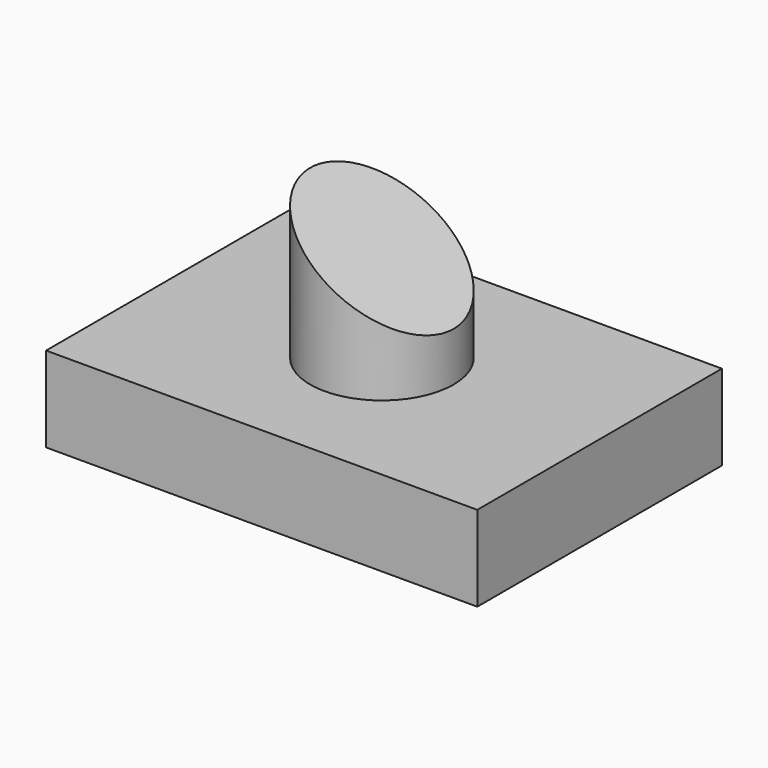
from build123d import *

# Parameters (mm, degrees)
F0_W     = 148.923736
F0_H     = 105.609175
F1_DEPTH = 29.464
F2_R     = 24.768688
F3_DEPTH = 51.308
F5_DEPTH = 1143


with BuildPart() as f1:
    # F0 (on Top) → F1 (new body)
    with BuildSketch(Plane.XY):
        with Locations((16.5732, 5.461818)):
            Rectangle(F0_W, F0_H)
    extrude(amount=F1_DEPTH)

    # F2 (on face) → F3 (join)
    with BuildSketch(Plane.XY.offset(29.464)):
        with Locations((15.579882, 5.789573)):
            Circle(F2_R)
    extrude(amount=F3_DEPTH)

    # F4 (on Front) → F5 (cut, symmetric)
    with BuildSketch(Plane.XZ):
        Polygon((40.655378, 84.109753), (-16.463115, 84.109753), (40.655378, 46.179499), align=None)
    extrude(amount=F5_DEPTH, both=True, mode=Mode.SUBTRACT)


solid = f1.part
